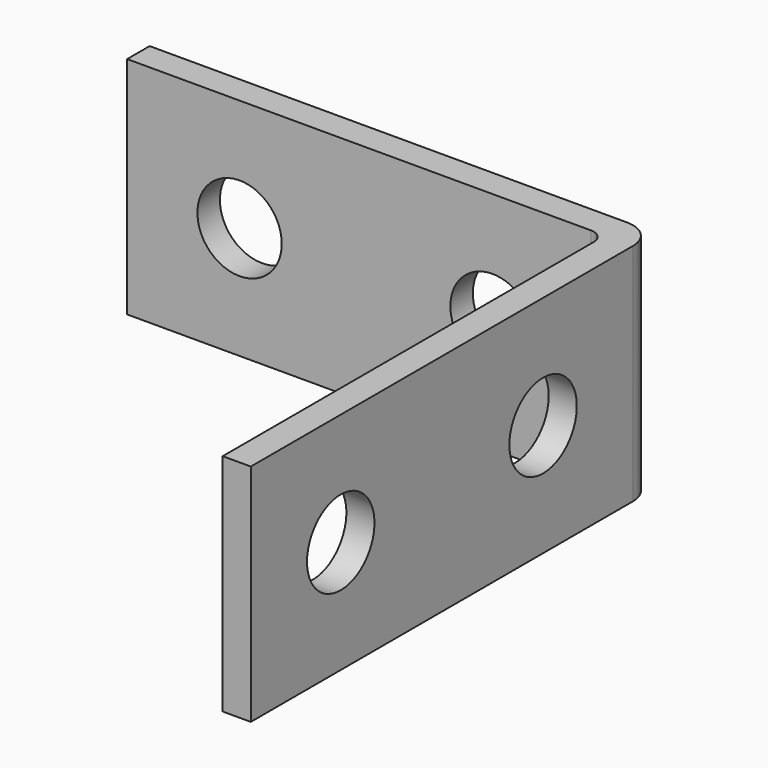
from build123d import *

# Parameters (mm, degrees)
F0_W     = 1
F0_H     = 1
F0_W_2   = 17
F0_H_2   = 17
F1_DEPTH = 8
F3_R     = 1.5
F4_DEPTH = 25
F2_R     = 1.5
F5_DEPTH = 25
F6_R     = 1
F7_R     = 0.5


with BuildPart() as f1:
    # F0 (on Top) → F1 (new body)
    with BuildSketch(Plane.XY):
        with Locations((0, 8.5)):
            Rectangle(F0_W, F0_H)
        with Locations((-9, 8.5)):
            Rectangle(F0_W_2, F0_H)
        with Locations((0, -0.5)):
            Rectangle(F0_W, F0_H_2)
    extrude(amount=F1_DEPTH)

    # F3 (on face) → F4 (cut)
    with BuildSketch(Plane.XZ.offset(-8)):
        with BuildLine():
            ThreePointArc((-15, 4), (-13.5, 2.5), (-12, 4))
            ThreePointArc((-12, 4), (-13.5, 5.5), (-15, 4))
        make_face()
        with Locations((-4.5, 4)):
            Circle(F3_R)
    extrude(amount=-F4_DEPTH, mode=Mode.SUBTRACT)

    # F2 (on face) → F5 (cut)
    with BuildSketch(Plane(origin=(-0.5, 0, 0), x_dir=(0, -1, 0), z_dir=(-1, 0, 0))):
        with Locations((5, 4)):
            Circle(F2_R)
        with Locations((-4, 4)):
            Circle(F2_R)
    extrude(amount=-F5_DEPTH, mode=Mode.SUBTRACT)

    # F6
    f6_edges = [f1.edges().sort_by_distance(p)[0] for p in [
        (0.5, 9, 4),
    ]]
    fillet(f6_edges, radius=F6_R)

    # F7
    f7_edges = [f1.edges().sort_by_distance(p)[0] for p in [
        (-0.5, 8, 4),
    ]]
    fillet(f7_edges, radius=F7_R)


solid = f1.part
